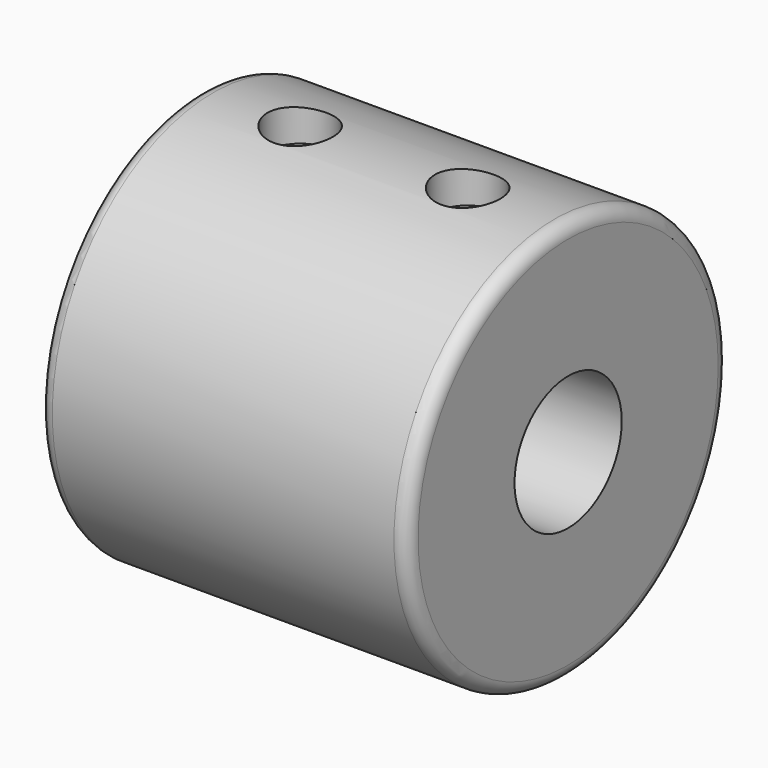
from build123d import *

# Parameters (mm, degrees)
F2_R           = 30
F2_R_2         = 10
F5_DEPTH       = 27.5
F6_R           = 2
F7_D           = 4.2
F7_DEPTH       = 22
F7_CBORE_D     = 9.75
F7_CBORE_DEPTH = 5
F7_TIP         = 1.2618073
F8_D           = 4.2
F8_DEPTH       = 22
F8_CBORE_D     = 9.75
F8_CBORE_DEPTH = 5
F8_TIP         = 1.2618073


with BuildPart() as f5:
    # F2 (on Right) → F5 (new body, symmetric)
    with BuildSketch(Plane.YZ):
        Circle(F2_R)
        Circle(F2_R_2, mode=Mode.SUBTRACT)
    extrude(amount=F5_DEPTH, both=True)

    # F6
    f6_edges = [f5.edges().sort_by_distance(p)[0] for p in [
        (27.5, -30, 0),
        (-27.5, -30, 0),
    ]]
    fillet(f6_edges, radius=F6_R)

    # F7
    with Locations(Plane.XY.offset(30)):
        with Locations((-12.5, 0), (12.5, 0)):
            CounterBoreHole(F7_D / 2, F7_CBORE_D / 2, F7_CBORE_DEPTH, depth=F7_DEPTH)
            with Locations((0, 0, -(F7_DEPTH + F7_TIP / 2))):  # 118° drill point
                Cone(0, F7_D / 2, F7_TIP, mode=Mode.SUBTRACT)

    # F8
    with Locations(Plane(origin=(0, 0, -30), x_dir=(1, 0, 0), z_dir=(0, 0, -1))):
        with Locations((0, 0)):
            CounterBoreHole(F8_D / 2, F8_CBORE_D / 2, F8_CBORE_DEPTH, depth=F8_DEPTH)
            with Locations((0, 0, -(F8_DEPTH + F8_TIP / 2))):  # 118° drill point
                Cone(0, F8_D / 2, F8_TIP, mode=Mode.SUBTRACT)


solid = f5.part
